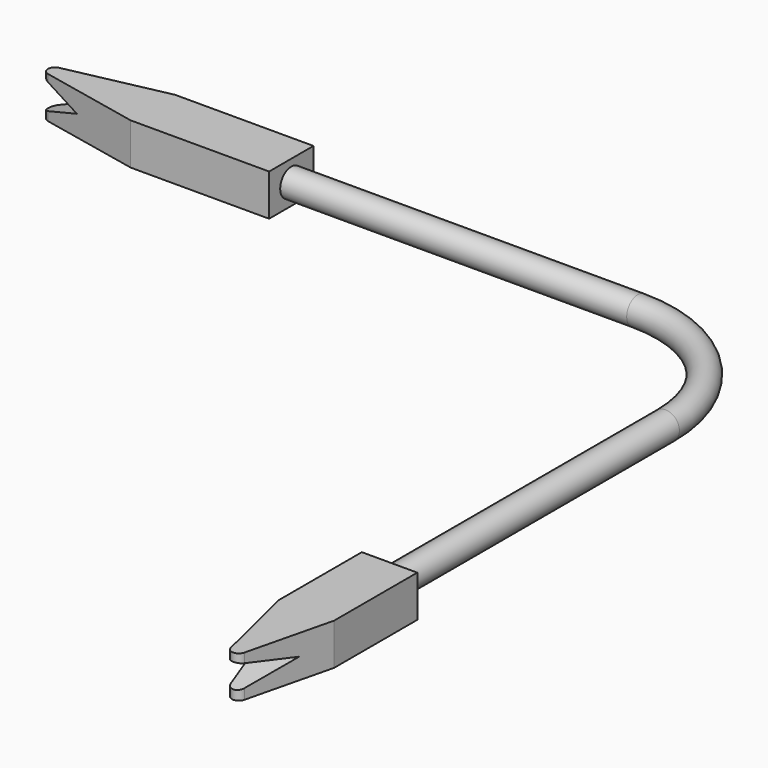
from build123d import *

# Parameters (mm, degrees)
F0_R      = 2.54
F3_W      = 25.3560190095
F3_H      = 10.16
F4_DEPTH  = 3.81
F6_DEPTH  = 7.62
F7_R      = 1.27
F9_DEPTH  = 25.4
F11_DEPTH = 3.81
F12_R     = 1.27
F14_DEPTH = 25.4


with BuildPart() as f2:
    # F2: sweep along a path in F1
    with BuildLine(Plane.XY) as f2_path:
        Line((0, 0), (63.5, 0))
        ThreePointArc((63.5, 0), (81.4605122421, -7.4394877579), (88.9, -25.4))
        Line((88.9, -25.4), (88.9, -88.9))
    # F0 (on Right) → F2 (sweep)
    with BuildSketch(Plane.YZ):
        Circle(F0_R)
    sweep(path=f2_path.line)

    # F3 (on Top) → F4 (join, symmetric)
    with BuildSketch(Plane.XY):
        with Locations((-12.6780095048, 0)):
            Rectangle(F3_W, F3_H)
    extrude(amount=F4_DEPTH, both=True)

    # F5 (on face) → F6 (join, through all)
    with BuildSketch(Plane.XY.offset(3.81)):
        Polygon((-25.3560190095, -5.08), (-25.3560190095, 5.08), (-49.4670197368, 0), align=None)
    extrude(amount=-F6_DEPTH)

    # F7
    f7_edges = [f2.edges().sort_by_distance(p)[0] for p in [
        (-49.46702, 0, 0),
    ]]
    fillet(f7_edges, radius=F7_R)

    # F8 (on face) → F9 (cut)
    with BuildSketch(Plane.XZ.offset(5.08)):
        Polygon((-46.2558194995, -3.1080117915), (-37.216514349, 0), (-46.2558194995, 3.528587753), align=None)
    extrude(amount=-F9_DEPTH, mode=Mode.SUBTRACT)

    # F10 (on Top) → F11 (join, symmetric)
    with BuildSketch(Plane.XY):
        Polygon((94.2088630664, -88.9), (84.0488630664, -88.9), (84.0488630664, -107.95), (89.1288630664, -128.7725716829), (94.2088630664, -107.95), align=None)
    extrude(amount=F11_DEPTH, both=True)

    # F12
    f12_edges = [f2.edges().sort_by_distance(p)[0] for p in [
        (89.128863, -128.772572, 0),
    ]]
    fillet(f12_edges, radius=F12_R)

    # F13 (on face) → F14 (cut)
    with BuildSketch(Plane.YZ.offset(94.2088630664)):
        Polygon((-128.7030428648, -2.9382649809), (-114.0688881278, 0), (-128.7030428648, 3.176004393), align=None)
    extrude(amount=-F14_DEPTH, mode=Mode.SUBTRACT)


solid = f2.part
